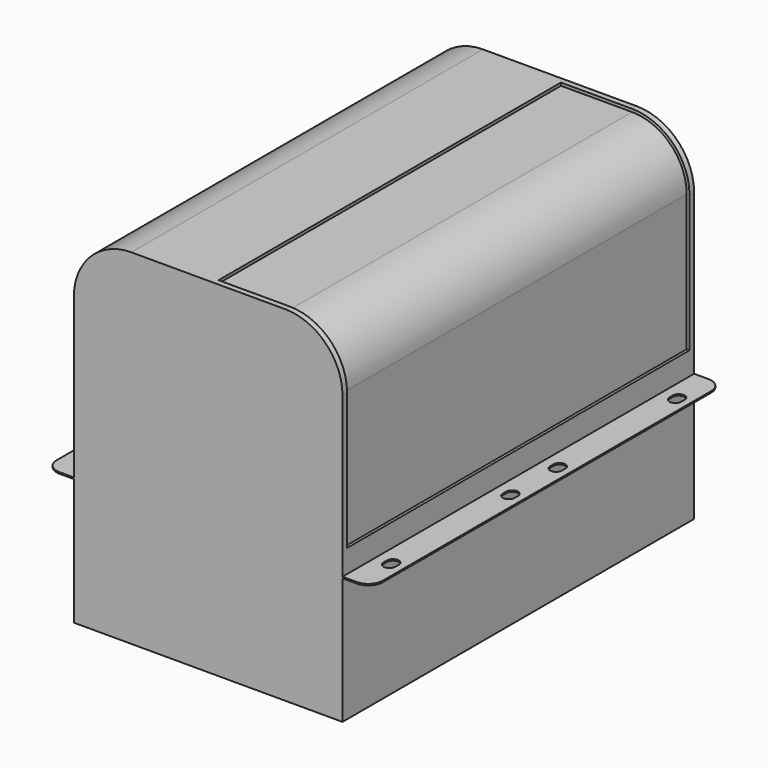
from build123d import *

# Parameters (mm, degrees)
F1_DEPTH  = 76.5
F2_W      = 113.5
F2_H      = 0.5
F3_DEPTH  = 153
F4_R      = 5
F6_DEPTH  = 44.501
F7_R      = 5.5
F8_DEPTH  = 20
F9_W      = 82.5
F9_H      = 113
F10_DEPTH = 6
F12_START = -2
F12_DEPTH = 149


with BuildPart() as f1:
    # F0 (on Front) → F1 (new body, symmetric)
    with BuildSketch(Plane.XZ):
        with BuildLine():
            ThreePointArc((46.75, 40), (12.6078643763, 25.8578643763), (26.75, 60))
            Line((26.75, 60), (-26.75, 60))
            ThreePointArc((-26.75, 60), (-12.6078643763, 54.1421356237), (-6.75, 40))
            ThreePointArc((-6.75, 40), (-26.75, 20), (-46.75, 40))
            Line((-46.75, 40), (-46.75, -60))
            Line((-46.75, -60), (46.75, -60))
            Line((46.75, -60), (46.75, 40))
        make_face()
        with BuildLine():
            ThreePointArc((46.75, 40), (40.8921356237, 54.1421356237), (26.75, 60))
            ThreePointArc((26.75, 60), (12.6078643763, 25.8578643763), (46.75, 40))
        make_face()
        with BuildLine():
            ThreePointArc((-6.75, 40), (-12.6078643763, 54.1421356237), (-26.75, 60))
            ThreePointArc((-26.75, 60), (-40.8921356237, 54.1421356237), (-46.75, 40))
            ThreePointArc((-46.75, 40), (-26.75, 20), (-6.75, 40))
        make_face()
    extrude(amount=F1_DEPTH, both=True)

    # F2 (on face) → F3 (join, through all)
    with BuildSketch(Plane.XZ.offset(76.5)):
        with Locations((0, -15.75)):
            Rectangle(F2_W, F2_H)
    extrude(amount=-F3_DEPTH)

    # F4
    f4_edges = [f1.edges().sort_by_distance(p)[0] for p in [
        (56.75, 76.5, -15.75),
        (-56.75, 76.5, -15.75),
        (-56.75, -76.5, -15.75),
        (56.75, -76.5, -15.75),
    ]]
    fillet(f4_edges, radius=F4_R)

    # F5 (on face) → F6 (cut, through all)
    with BuildSketch(Plane.XY.offset(-15.5)):
        with BuildLine():
            ThreePointArc((-49.7, 62.95), (-51.75, 65), (-53.8, 62.95))
            Line((-53.8, 62.95), (-53.8, 61.45))
            ThreePointArc((-53.8, 61.45), (-51.75, 59.4), (-49.7, 61.45))
            Line((-49.7, 61.45), (-49.7, 62.95))
        make_face()
        with BuildLine():
            ThreePointArc((-49.7, 11.05), (-51.75, 13.1), (-53.8, 11.05))
            Line((-53.8, 11.05), (-53.8, 9.55))
            ThreePointArc((-53.8, 9.55), (-51.75, 7.5), (-49.7, 9.55))
            Line((-49.7, 9.55), (-49.7, 11.05))
        make_face()
        with BuildLine():
            ThreePointArc((54.3, 62.95), (52.25, 65), (50.2, 62.95))
            Line((50.2, 62.95), (50.2, 61.45))
            ThreePointArc((50.2, 61.45), (52.25, 59.4), (54.3, 61.45))
            Line((54.3, 61.45), (54.3, 62.95))
        make_face()
        with BuildLine():
            ThreePointArc((54.3, 11.05), (52.25, 13.1), (50.2, 11.05))
            Line((50.2, 11.05), (50.2, 9.55))
            ThreePointArc((50.2, 9.55), (52.25, 7.5), (54.3, 9.55))
            Line((54.3, 9.55), (54.3, 11.05))
        make_face()
        with BuildLine():
            Line((-49.7, -62.95), (-49.7, -61.45))
            ThreePointArc((-49.7, -61.45), (-51.75, -59.4), (-53.8, -61.45))
            Line((-53.8, -61.45), (-53.8, -62.95))
            ThreePointArc((-53.8, -62.95), (-51.75, -65), (-49.7, -62.95))
        make_face()
        with BuildLine():
            Line((-53.8, -9.55), (-53.8, -11.05))
            ThreePointArc((-53.8, -11.05), (-51.75, -13.1), (-49.7, -11.05))
            Line((-49.7, -11.05), (-49.7, -9.55))
            ThreePointArc((-49.7, -9.55), (-51.75, -7.5), (-53.8, -9.55))
        make_face()
        with BuildLine():
            Line((54.3, -11.05), (54.3, -9.55))
            ThreePointArc((54.3, -9.55), (52.25, -7.5), (50.2, -9.55))
            Line((50.2, -9.55), (50.2, -11.05))
            ThreePointArc((50.2, -11.05), (52.25, -13.1), (54.3, -11.05))
        make_face()
        with BuildLine():
            Line((54.3, -62.95), (54.3, -61.45))
            ThreePointArc((54.3, -61.45), (52.25, -59.4), (50.2, -61.45))
            Line((50.2, -61.45), (50.2, -62.95))
            ThreePointArc((50.2, -62.95), (52.25, -65), (54.3, -62.95))
        make_face()
    extrude(amount=-F6_DEPTH, mode=Mode.SUBTRACT)

    # F7 (on face) → F8 (join)
    with BuildSketch(Plane(origin=(0, 76.5, 0), x_dir=(-1, 0, 0), z_dir=(0, 1, 0))):
        with Locations((-24.25, -12.5)):
            Circle(F7_R)
    extrude(amount=F8_DEPTH)

    # F9 (on face) → F10 (cut)
    with BuildSketch(Plane(origin=(0, 0, -60), x_dir=(1, 0, 0), z_dir=(0, 0, -1))):
        Rectangle(F9_W, F9_H)
    extrude(amount=-F10_DEPTH, mode=Mode.SUBTRACT)

    # F11 (on face) → F12 (cut)
    with BuildSketch(Plane(origin=(0, 76.5, 0), x_dir=(-1, 0, 0), z_dir=(0, 1, 0)).offset(F12_START)):
        with BuildLine():
            ThreePointArc((-45.75, 40), (-40.1850288425, 53.4350288425), (-26.75, 59))
            Line((-26.75, 59), (-2, 59))
            Line((-2, 59), (-2, 60))
            Line((-2, 60), (-26.75, 60))
            ThreePointArc((-26.75, 60), (-40.8921356237, 54.1421356237), (-46.75, 40))
            Line((-46.75, 40), (-46.75, -7.5))
            Line((-46.75, -7.5), (-45.75, -7.5))
            Line((-45.75, -7.5), (-45.75, 40))
        make_face()
    extrude(amount=-F12_DEPTH, mode=Mode.SUBTRACT)


solid = f1.part
